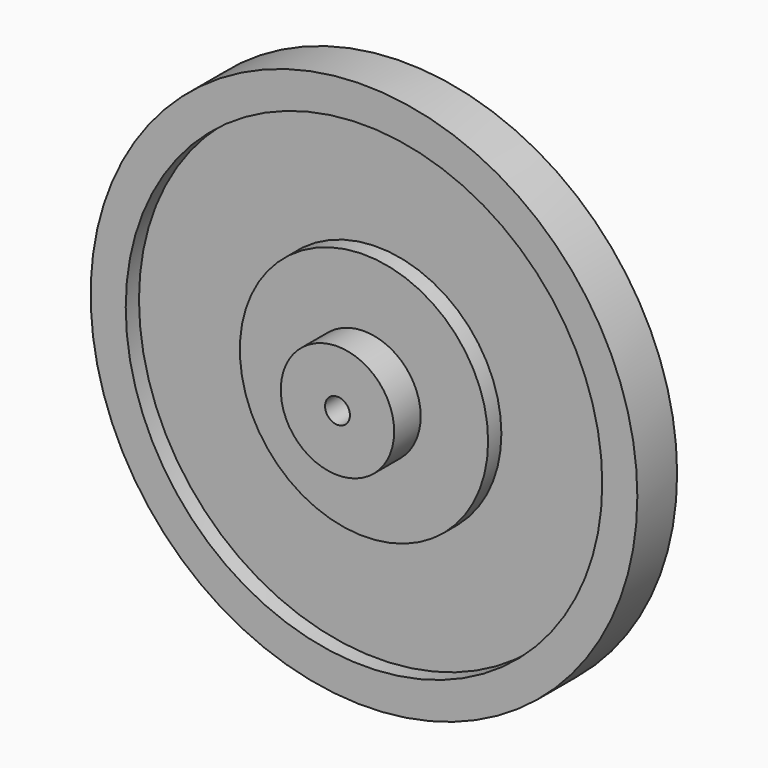
from build123d import *

# Parameters (mm, degrees)
F0_R     = 33
F1_DEPTH = 6
F2_R     = 28.763366
F3_DEPTH = 2
F4_R     = 14.9859
F5_DEPTH = 2
F6_R     = 6.84366
F7_DEPTH = 4
F8_R     = 1.5
F9_DEPTH = 25


with BuildPart() as f1:
    # F0 (on Front) → F1 (new body)
    with BuildSketch(Plane.XZ):
        Circle(F0_R)
        Circle(F0_R)
    extrude(amount=F1_DEPTH)

    # F2 (on face) → F3 (cut)
    with BuildSketch(Plane.XZ.offset(6)):
        Circle(F2_R)
    extrude(amount=-F3_DEPTH, mode=Mode.SUBTRACT)

    # F4 (on face) → F5 (join)
    with BuildSketch(Plane.XZ.offset(4)):
        Circle(F4_R)
    extrude(amount=F5_DEPTH)

    # F6 (on face) → F7 (join)
    with BuildSketch(Plane.XZ.offset(6)):
        Circle(F6_R)
    extrude(amount=F7_DEPTH)

    # F8 (on face) → F9 (cut)
    with BuildSketch(Plane.XZ.offset(10)):
        Circle(F8_R)
    extrude(amount=-F9_DEPTH, mode=Mode.SUBTRACT)


solid = f1.part
